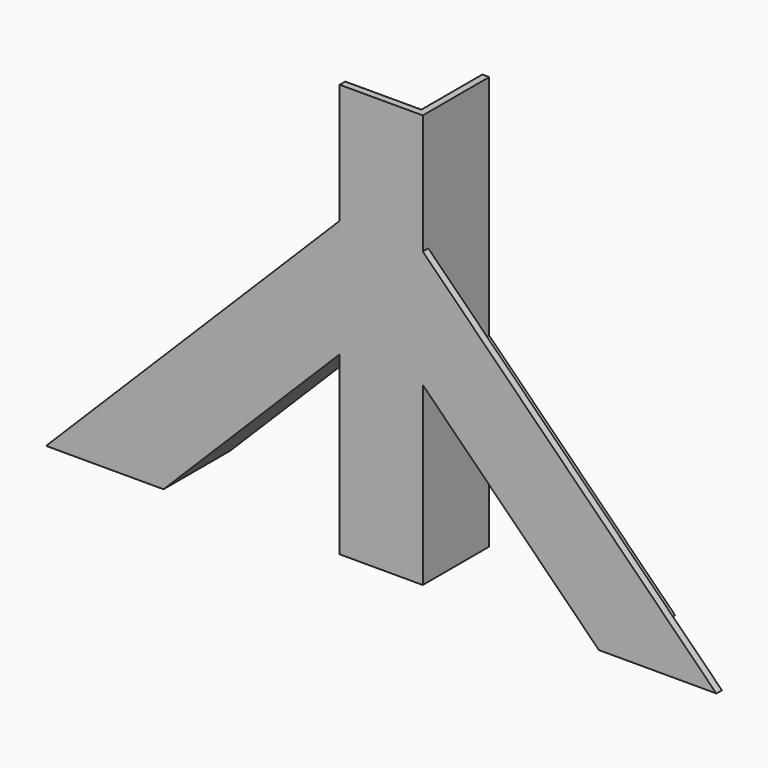
from build123d import *

# Parameters (mm, degrees)
F1_DEPTH = 3.175
F3_DEPTH = 34.925
F5_DEPTH = 34.925
F7_DEPTH = 34.925


with BuildPart() as f1:
    # F0 (on Front) → F1 (new body)
    with BuildSketch(Plane.XZ):
        Polygon((0, 80.828254), (0, 0), (38.1, 0), (38.1, 80.828254), (38.1, 134.70979), (38.1, 189.66895), (0, 189.66895), (0, 134.70979), align=None)
        Polygon((-80.828254, 0), (0, 80.828254), (0, 134.70979), (-134.70979, 0), align=None)
        Polygon((38.1, 134.70979), (38.1, 80.828254), (118.928254, 0), (172.80979, 0), align=None)
    extrude(amount=F1_DEPTH)

    # F2 (on face) → F3 (join)
    with BuildSketch(Plane(origin=(0, 0, 0), x_dir=(-1, 0, 0), z_dir=(0, 1, 0))):
        Polygon((-38.1, 80.828254), (-38.1, 0), (-34.925, 0), (-34.925, 189.66895), (-38.1, 189.66895), (-38.1, 134.70979), align=None)
    extrude(amount=F3_DEPTH)

    # F4 (on face) → F5 (join)
    with BuildSketch(Plane(origin=(0, 0, 0), x_dir=(-1, 0, 0), z_dir=(0, 1, 0))):
        Polygon((-123.418382, 0), (-118.928254, 0), (-38.1, 80.828254), (-38.1, 85.318382), align=None)
    extrude(amount=F5_DEPTH)

    # F6 (on face) → F7 (join)
    with BuildSketch(Plane(origin=(0, 0, 0), x_dir=(-1, 0, 0), z_dir=(0, 1, 0))):
        Polygon((0, 80.828254), (80.828254, 0), (85.318382, 0), (0, 85.318382), align=None)
    extrude(amount=F7_DEPTH)


solid = f1.part
